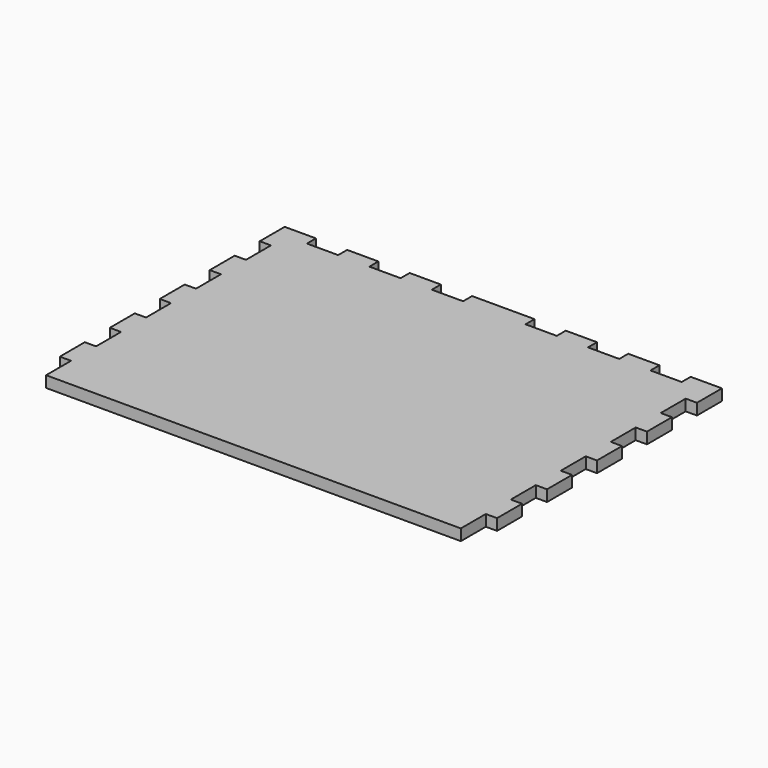
from build123d import *

# Parameters (mm, degrees)
F1_DEPTH = 18


with BuildPart() as f1:
    # F0 (on Top) → F1 (new body)
    with BuildSketch(Plane.XY):
        Polygon((-350, -125), (-350, -175), (-332, -175), (-332, -225), (-350, -225), (-350, -275), (-332, -275), (-332, -325), (332, -325), (332, -275), (350, -275), (350, -225), (332, -225), (332, -175), (350, -175), (350, -125), (332, -125), (332, -75), (350, -75), (350, -25), (332, -25), (332, 25), (350, 25), (350, 75), (332, 75), (332, 125), (350, 125), (350, 157), (350, 175), (300, 175), (300, 157), (250, 157), (250, 175), (200, 175), (200, 157), (150, 157), (150, 175), (100, 175), (100, 157), (50, 157), (50, 175), (0, 175), (-50, 175), (-50, 157), (-100, 157), (-100, 175), (-150, 175), (-150, 157), (-200, 157), (-200, 175), (-250, 175), (-250, 157), (-300, 157), (-300, 175), (-350, 175), (-350, 157), (-350, 125), (-332, 125), (-332, 75), (-350, 75), (-350, 25), (-332, 25), (-332, -25), (-350, -25), (-350, -75), (-332, -75), (-332, -125), align=None)
    extrude(amount=F1_DEPTH)


solid = f1.part
